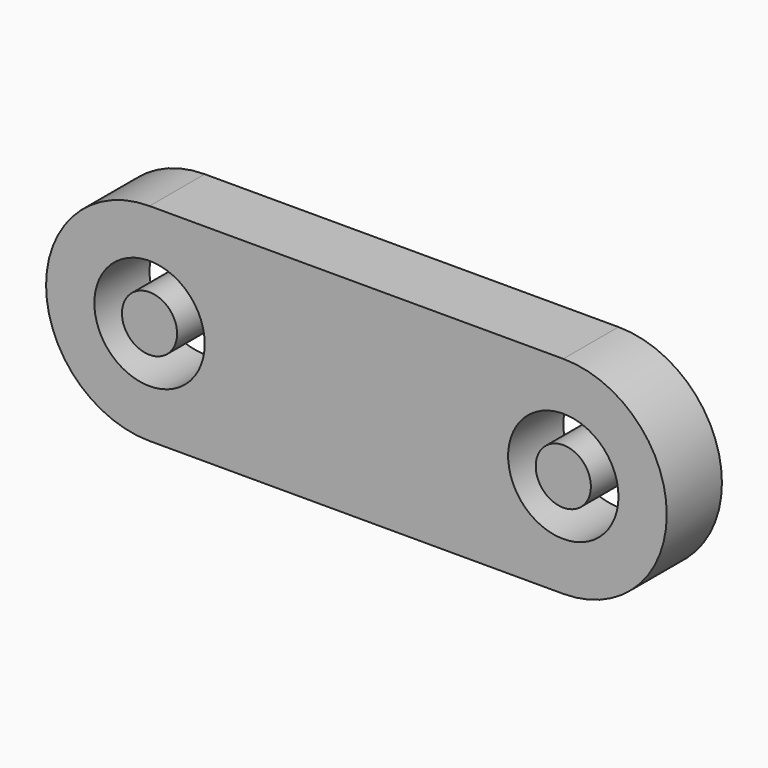
from build123d import *

# Parameters (mm, degrees)
F0_R     = 4
F1_DEPTH = 5
F2_R     = 2
F3_DEPTH = 5


with BuildPart() as f1:
    # F0 (on Front) → F1 (new body)
    with BuildSketch(Plane.XZ):
        with BuildLine():
            Line((30, 7.5), (0, 7.5))
            ThreePointArc((0, 7.5), (-7.5, 0), (0, -7.5))
            Line((0, -7.5), (30, -7.5))
            ThreePointArc((30, -7.5), (37.5, 0), (30, 7.5))
        make_face()
        Circle(F0_R, mode=Mode.SUBTRACT)
        with Locations((30, 0)):
            Circle(F0_R, mode=Mode.SUBTRACT)
    extrude(amount=F1_DEPTH)


with BuildPart() as f3:
    # F2 (on face) → F3 (new body)
    with BuildSketch(Plane.XZ.offset(5)):
        with Locations((30, 0)):
            Circle(F2_R)
        Circle(F2_R)
    extrude(amount=-F3_DEPTH)


solid = Compound([f1.part, f3.part])
